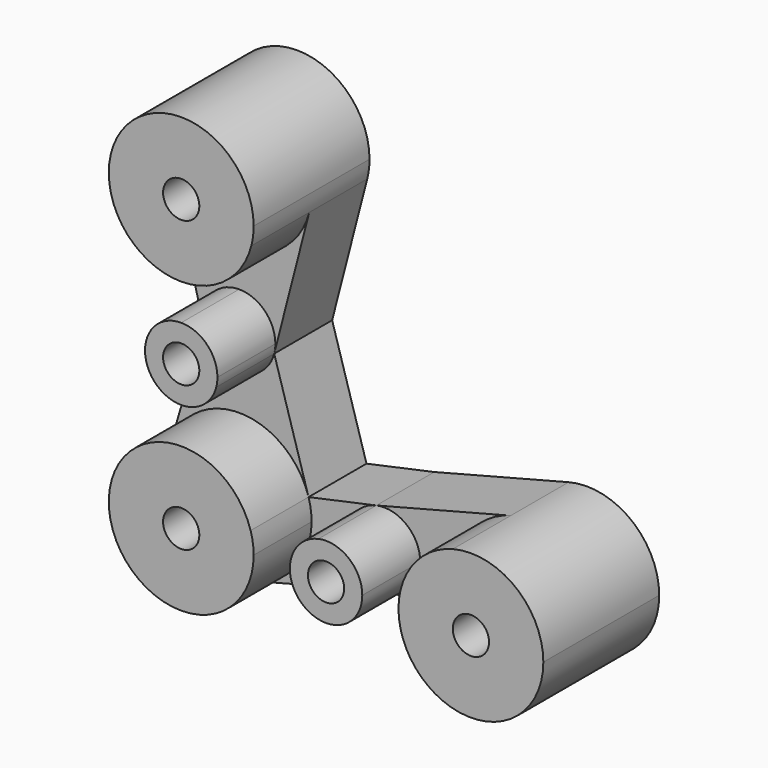
from build123d import *

# Parameters (mm, degrees)
F1_DEPTH = 50.8
F2_DEPTH = 25.4
F3_D     = 12.7
F3_2_D   = 12.7
F3_3_D   = 12.7
F3_4_D   = 12.7
F3_5_D   = 12.7


with BuildPart() as f1:
    # F0 (on Front) → F1 (new body)
    with BuildSketch(Plane.XZ):
        with BuildLine():
            ThreePointArc((-101.6, 2.7753140884), (-86.0457401333, 8.0948509463), (-77.0065557516, 21.8253140884))
            ThreePointArc((-77.0065557516, 21.8253140884), (-76.4024457148, 24.9748050593), (-76.2, 28.1753140884))
            ThreePointArc((-76.2, 28.1753140884), (-104.8005090291, 53.3728683735), (-126.1934442484, 21.8253140884))
            ThreePointArc((-126.1934442484, 21.8253140884), (-117.1542598667, 8.0948509463), (-101.6, 2.7753140884))
        make_face()
    extrude(amount=F1_DEPTH)

    # F3 (through all)
    with Locations(Plane(origin=(0, 0, 0), x_dir=(1, 0, 0), z_dir=(0, 1, 0))):
        with Locations((-101.6, -28.1753140884), (-101.6, 22.6246859116), (-101.6, 73.4246859116), (-50.8, 73.4246859116), (0, 73.4246859116)):
            Hole(F3_D / 2)


with BuildPart() as f1b:
    # F0 (on Front) → F1, piece 2 (new body)
    with BuildSketch(Plane.XZ):
        with BuildLine():
            Line((-101.6, -22.6246859116), (-101.6, -35.3246859116))
            ThreePointArc((-101.6, -35.3246859116), (-93.8228700667, -32.6649174827), (-89.3032778758, -25.7996859116))
            ThreePointArc((-89.3032778758, -25.7996859116), (-89.0012228574, -24.2249404262), (-88.9, -22.6246859116))
            ThreePointArc((-88.9, -22.6246859116), (-92.6197438789, -13.6444297906), (-101.6, -9.9246859116))
            Line((-101.6, -9.9246859116), (-101.6, -22.6246859116))
        make_face()
        with BuildLine():
            ThreePointArc((-113.8967221242, -25.7996859116), (-109.3771299333, -32.6649174827), (-101.6, -35.3246859116))
            Line((-101.6, -35.3246859116), (-101.6, -22.6246859116))
            Line((-101.6, -22.6246859116), (-101.6, -9.9246859116))
            ThreePointArc((-101.6, -9.9246859116), (-111.640231571, -14.8475559783), (-113.8967221242, -25.7996859116))
        make_face()
    extrude(amount=F1_DEPTH)

    # F3#2 (through all)
    with Locations(Plane(origin=(0, 0, 0), x_dir=(1, 0, 0), z_dir=(0, 1, 0))):
        with Locations((-101.6, -28.1753140884), (-101.6, 22.6246859116), (-101.6, 73.4246859116), (-50.8, 73.4246859116), (0, 73.4246859116)):
            Hole(F3_2_D / 2)


with BuildPart() as f1c:
    # F0 (on Front) → F1, piece 3 (new body)
    with BuildSketch(Plane.XZ):
        with BuildLine():
            Line((-101.6, -48.0246859116), (-101.6, -73.4246859116))
            Line((-101.6, -73.4246859116), (-76.2, -73.4246859116))
            ThreePointArc((-76.2, -73.4246859116), (-76.4664744784, -69.7550953548), (-77.2603066815, -66.1625010366))
            ThreePointArc((-77.2603066815, -66.1625010366), (-86.4227060354, -53.0578072133), (-101.6, -48.0246859116))
        make_face()
        with BuildLine():
            Line((-76.2, -73.4246859116), (-101.6, -73.4246859116))
            Line((-101.6, -73.4246859116), (-101.6, -48.0246859116))
            ThreePointArc((-101.6, -48.0246859116), (-116.7772939646, -53.0578072133), (-125.9396933185, -66.1625010366))
            ThreePointArc((-125.9396933185, -66.1625010366), (-119.8921443012, -91.0473263739), (-95.25, -98.0181301601))
            ThreePointArc((-95.25, -98.0181301601), (-81.5195368579, -88.9789457783), (-76.2, -73.4246859116))
        make_face()
    extrude(amount=F1_DEPTH)

    # F3#3 (through all)
    with Locations(Plane(origin=(0, 0, 0), x_dir=(1, 0, 0), z_dir=(0, 1, 0))):
        with Locations((-101.6, -28.1753140884), (-101.6, 22.6246859116), (-101.6, 73.4246859116), (-50.8, 73.4246859116), (0, 73.4246859116)):
            Hole(F3_3_D / 2)


with BuildPart() as f1d:
    # F0 (on Front) → F1, piece 4 (new body)
    with BuildSketch(Plane.XZ):
        with BuildLine():
            Line((-50.8, -73.4246859116), (-63.5, -73.4246859116))
            ThreePointArc((-63.5, -73.4246859116), (-58.5771299333, -83.4649174827), (-47.625, -85.7214080358))
            ThreePointArc((-47.625, -85.7214080358), (-40.759768429, -81.201815845), (-38.1, -73.4246859116))
            Line((-38.1, -73.4246859116), (-50.8, -73.4246859116))
        make_face()
        with BuildLine():
            ThreePointArc((-53.4889818221, -61.0126201383), (-60.6853444336, -65.4516083735), (-63.5, -73.4246859116))
            Line((-63.5, -73.4246859116), (-50.8, -73.4246859116))
            Line((-50.8, -73.4246859116), (-38.1, -73.4246859116))
            ThreePointArc((-38.1, -73.4246859116), (-42.8269224618, -63.5393414781), (-53.4889818221, -61.0126201383))
        make_face()
    extrude(amount=F1_DEPTH)

    # F3#4 (through all)
    with Locations(Plane(origin=(0, 0, 0), x_dir=(1, 0, 0), z_dir=(0, 1, 0))):
        with Locations((-101.6, -28.1753140884), (-101.6, 22.6246859116), (-101.6, 73.4246859116), (-50.8, 73.4246859116), (0, 73.4246859116)):
            Hole(F3_4_D / 2)


with BuildPart() as f1e:
    # F0 (on Front) → F1, piece 5 (new body)
    with BuildSketch(Plane.XZ):
        with BuildLine():
            ThreePointArc((25.3999999825, -73.4246859116), (15.5522338839, -53.3426536357), (-6.3549622702, -48.832523468))
            ThreePointArc((-6.3549622702, -48.832523468), (-20.0820322759, -57.8724520278), (-25.3999999825, -73.4246859116))
            ThreePointArc((-25.3999999825, -73.4246859116), (-20.3668788178, -88.6019796865), (-7.2621852984, -97.7643790856))
            ThreePointArc((-7.2621852984, -97.7643790856), (15.1772937749, -93.7915647295), (25.3999999825, -73.4246859116))
        make_face()
    extrude(amount=F1_DEPTH)

    # F3#5 (through all)
    with Locations(Plane(origin=(0, 0, 0), x_dir=(1, 0, 0), z_dir=(0, 1, 0))):
        with Locations((-101.6, -28.1753140884), (-101.6, 22.6246859116), (-101.6, 73.4246859116), (-50.8, 73.4246859116), (0, 73.4246859116)):
            Hole(F3_5_D / 2)


with BuildPart() as f2:
    # F0 (on Front) → F2 (new body)
    with BuildSketch(Plane.XZ):
        with BuildLine():
            Line((-126.1934442484, 21.8253140884), (-113.8967221242, -25.7996859116))
            ThreePointArc((-113.8967221242, -25.7996859116), (-111.640231571, -14.8475559783), (-101.6, -9.9246859116))
            Line((-101.6, -9.9246859116), (-101.6, 2.7753140884))
            ThreePointArc((-101.6, 2.7753140884), (-117.1542598667, 8.0948509463), (-126.1934442484, 21.8253140884))
        make_face()
        with BuildLine():
            ThreePointArc((-88.9, -22.6246859116), (-89.0012228574, -24.2249404262), (-89.3032778758, -25.7996859116))
            Line((-89.3032778758, -25.7996859116), (-77.0065557516, 21.8253140884))
            ThreePointArc((-77.0065557516, 21.8253140884), (-86.0457401333, 8.0948509463), (-101.6, 2.7753140884))
            Line((-101.6, 2.7753140884), (-101.6, -9.9246859116))
            ThreePointArc((-101.6, -9.9246859116), (-92.6197438789, -13.6444297906), (-88.9, -22.6246859116))
        make_face()
    extrude(amount=F2_DEPTH)


with BuildPart() as f2b:
    # F0 (on Front) → F2, piece 2 (new body)
    with BuildSketch(Plane.XZ):
        with BuildLine():
            Line((-101.6, -35.3246859116), (-101.6, -48.0246859116))
            ThreePointArc((-101.6, -48.0246859116), (-86.4227060354, -53.0578072133), (-77.2603066815, -66.1625010366))
            Line((-77.2603066815, -66.1625010366), (-89.3032778758, -25.7996859116))
            ThreePointArc((-89.3032778758, -25.7996859116), (-93.8228700667, -32.6649174827), (-101.6, -35.3246859116))
        make_face()
        with BuildLine():
            ThreePointArc((-125.9396933185, -66.1625010366), (-116.7772939646, -53.0578072133), (-101.6, -48.0246859116))
            Line((-101.6, -48.0246859116), (-101.6, -35.3246859116))
            ThreePointArc((-101.6, -35.3246859116), (-109.3771299333, -32.6649174827), (-113.8967221242, -25.7996859116))
            Line((-113.8967221242, -25.7996859116), (-125.9396933185, -66.1625010366))
        make_face()
    extrude(amount=F2_DEPTH)


with BuildPart() as f2c:
    # F0 (on Front) → F2, piece 3 (new body)
    with BuildSketch(Plane.XZ):
        with BuildLine():
            ThreePointArc((-77.2603066815, -66.1625010366), (-76.4664744784, -69.7550953548), (-76.2, -73.4246859116))
            Line((-76.2, -73.4246859116), (-63.5, -73.4246859116))
            ThreePointArc((-63.5, -73.4246859116), (-60.6853444336, -65.4516083735), (-53.4889818221, -61.0126201383))
            Line((-53.4889818221, -61.0126201383), (-77.2603066815, -66.1625010366))
        make_face()
        with BuildLine():
            Line((-63.5, -73.4246859116), (-76.2, -73.4246859116))
            ThreePointArc((-76.2, -73.4246859116), (-81.5195368579, -88.9789457783), (-95.25, -98.0181301601))
            Line((-95.25, -98.0181301601), (-47.625, -85.7214080358))
            ThreePointArc((-47.625, -85.7214080358), (-58.5771299333, -83.4649174827), (-63.5, -73.4246859116))
        make_face()
    extrude(amount=F2_DEPTH)


with BuildPart() as f2d:
    # F0 (on Front) → F2, piece 4 (new body)
    with BuildSketch(Plane.XZ):
        with BuildLine():
            Line((-6.3549622702, -48.832523468), (-53.4889818221, -61.0126201383))
            ThreePointArc((-53.4889818221, -61.0126201383), (-42.8269224618, -63.5393414781), (-38.1, -73.4246859116))
            Line((-38.1, -73.4246859116), (-25.3999999825, -73.4246859116))
            ThreePointArc((-25.3999999825, -73.4246859116), (-20.0820322759, -57.8724520278), (-6.3549622702, -48.832523468))
        make_face()
        with BuildLine():
            ThreePointArc((-38.1, -73.4246859116), (-40.759768429, -81.201815845), (-47.625, -85.7214080358))
            Line((-47.625, -85.7214080358), (-7.2621852984, -97.7643790856))
            ThreePointArc((-7.2621852984, -97.7643790856), (-20.3668788178, -88.6019796865), (-25.3999999825, -73.4246859116))
            Line((-25.3999999825, -73.4246859116), (-38.1, -73.4246859116))
        make_face()
    extrude(amount=F2_DEPTH)


solid = Compound([f1.part, f1b.part, f1c.part, f1d.part, f1e.part, f2.part, f2b.part, f2c.part, f2d.part])
